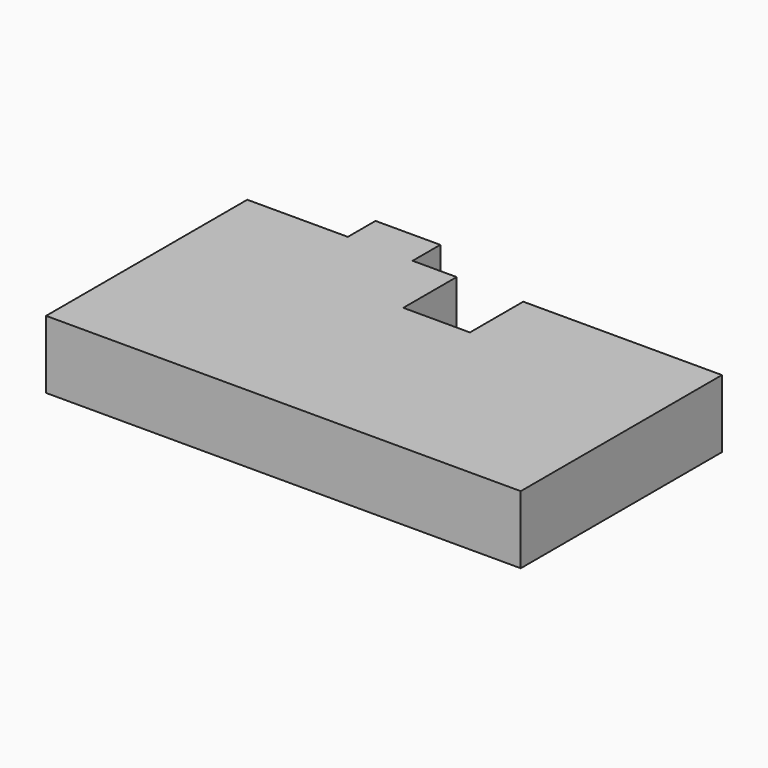
from build123d import *

# Parameters (mm, degrees)
F2_DEPTH = 1080


with BuildPart() as f2:
    # F0 (on Top) → F2 (new body, through all)
    with BuildSketch(Plane.XY):
        Polygon((-8150, -2950), (-9750, -2950), (-9750, -6950), (-2200, -6950), (-2200, -2950), (-5360, -2950), (-5360, -4010), (-6420, -4010), (-6420, -2950), (-7120, -2950), (-7120, -2400), (-8150, -2400), align=None)
    extrude(amount=F2_DEPTH)


solid = f2.part
